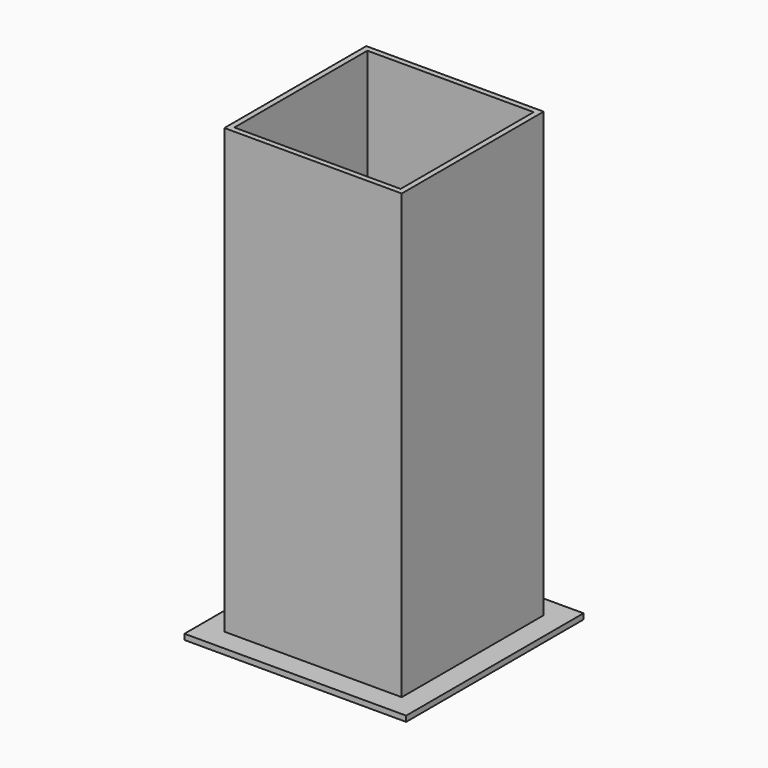
from build123d import *

# Parameters (mm, degrees)
F0_W     = 320
F0_H     = 320
F0_W_2   = 300
F0_H_2   = 300
F1_DEPTH = 800
F2_W     = 400
F2_H     = 400
F2_W_2   = 300
F2_H_2   = 300
F3_DEPTH = 10


with BuildPart() as f1:
    # F0 (on Top) → F1 (new body)
    with BuildSketch(Plane.XY):
        Rectangle(F0_W, F0_H)
        Rectangle(F0_W_2, F0_H_2, mode=Mode.SUBTRACT)
    extrude(amount=F1_DEPTH)

    # F2 (on face) + F0 (on Top) → F3 (join)
    with BuildSketch(Plane.XY):
        Rectangle(F2_W, F2_H)
        Rectangle(F2_W_2, F2_H_2, mode=Mode.SUBTRACT)
    with BuildSketch(Plane.XY):
        Rectangle(F0_W_2, F0_H_2)
    extrude(amount=-F3_DEPTH)


solid = f1.part
